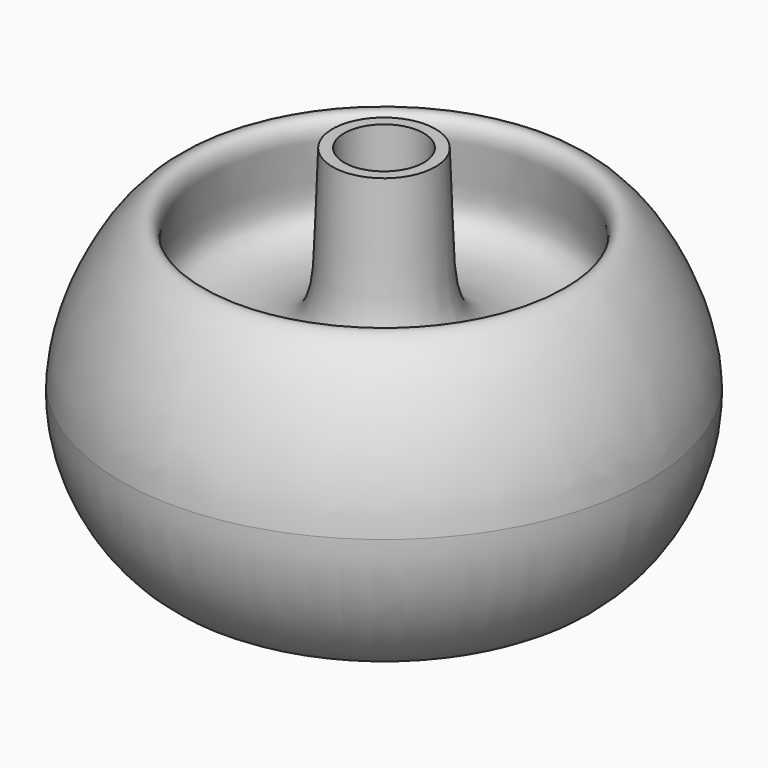
from build123d import *

# Parameters (mm, degrees)
F2_R     = 13.7074551357
F2_R_2   = 7.3581973636
F3_DEPTH = 11.43


with BuildPart() as f1:
    # F0 (on Front) → F1 (revolve)
    with BuildSketch(Plane.XZ):
        with BuildLine():
            Line((1.5926476335, 17.4665171653), (1.5926476335, 0))
            Line((1.5926476335, 0), (2.9566818848, 0))
            add(Edge.make_bspline(
                [(2.9566818848, 0), (5.5119161364, 9.1193808428), (24.3325616694, 1.607112109), (18.8642289079, 20.2073667577), (23.8128305885, 10.0851092788), (18.5316821846, -2.2044076946), (32.1124548667, 9.7214555626), (31.7403785884, 20.618930459)],
                knots=[0, 0, 0, 0, 0.2562621413, 0.4274225141, 0.5724906129, 0.7337114389, 1, 1, 1, 1], degree=3))
            add(Edge.make_bspline(
                [(6.1840414086, 45.5635823309), (6.8350975777, 32.5444156657), (5.0779752492, 25.1108100142), (25.1270286205, 24.7235673524), (19.9586693221, 35.7931684336), (23.4535336391, 40.5517974052), (31.3407002134, 28.8609155548), (31.7403785884, 20.618930459)],
                knots=[0, 0, 0, 0, 0.2634689684, 0.463961196, 0.6401518329, 0.7364263221, 1, 1, 1, 1], degree=3))
            Line((6.1840414086, 45.5635823309), (4.7856238671, 45.5635823309))
            Line((4.7856238671, 45.5635823309), (4.7856238671, 36.0026750714))
            Line((4.7856238671, 36.0026750714), (0, 36.0026750714))
            Line((0, 36.0026750714), (0, 20.618930459))
            Line((0, 20.618930459), (0, 17.4665171653))
            Line((0, 17.4665171653), (1.5926476335, 17.4665171653))
        make_face()
    revolve(axis=Axis((0, 0, 28.3108027652), (0, 0, -1)))

    # F2 (on Top) → F3 (cut)
    with BuildSketch(Plane.XY):
        Circle(F2_R)
        Circle(F2_R_2, mode=Mode.SUBTRACT)
    extrude(amount=F3_DEPTH, mode=Mode.SUBTRACT)


solid = f1.part
